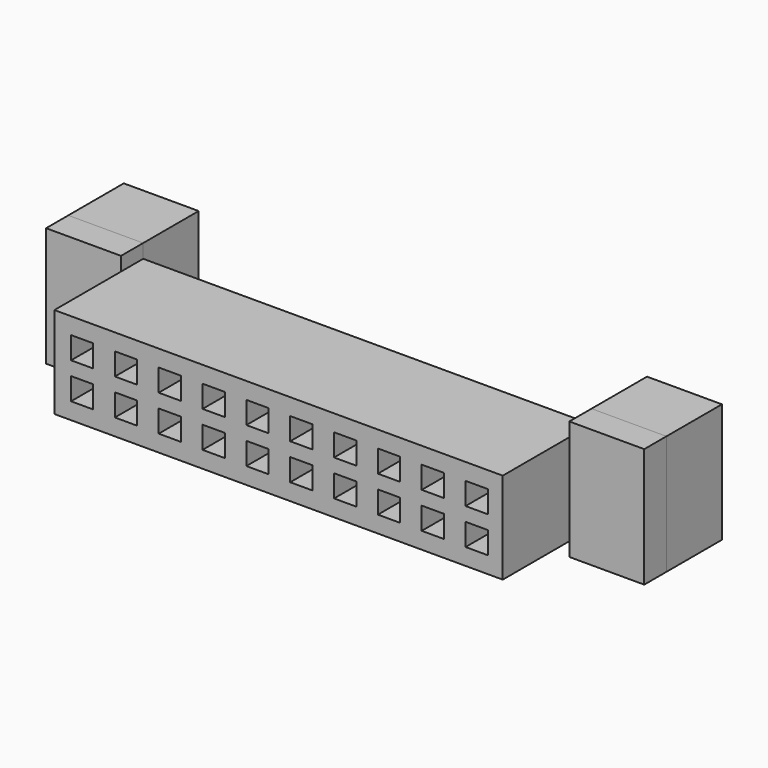
from build123d import *

# Parameters (mm, degrees)
F0_W      = 20.5232
F0_H      = 4.191
F0_W_2    = 1.016
F0_H_2    = 1.016
F1_DEPTH  = 5.08
F3_DEPTH  = 3.175
F3_FACE_W = 3.429
F3_FACE_H = 5.461
F4_DEPTH  = 1.27


with BuildPart() as f1:
    # F0 (on Front) → F1 (new body)
    with BuildSketch(Plane.XZ):
        with Locations((10.2616, 2.0955)):
            Rectangle(F0_W, F0_H)
        with Locations((1.27, 1.27)):
            Rectangle(F0_W_2, F0_H_2, mode=Mode.SUBTRACT)
        with Locations((3.2766, 1.27)):
            Rectangle(F0_W_2, F0_H_2, mode=Mode.SUBTRACT)
        with Locations((5.2832, 1.27)):
            Rectangle(F0_W_2, F0_H_2, mode=Mode.SUBTRACT)
        with Locations((7.2898, 1.27)):
            Rectangle(F0_W_2, F0_H_2, mode=Mode.SUBTRACT)
        with Locations((9.2964, 1.27)):
            Rectangle(F0_W_2, F0_H_2, mode=Mode.SUBTRACT)
        with Locations((11.303, 1.27)):
            Rectangle(F0_W_2, F0_H_2, mode=Mode.SUBTRACT)
        with Locations((13.3096, 1.27)):
            Rectangle(F0_W_2, F0_H_2, mode=Mode.SUBTRACT)
        with Locations((15.3162, 1.27)):
            Rectangle(F0_W_2, F0_H_2, mode=Mode.SUBTRACT)
        with Locations((17.3228, 1.27)):
            Rectangle(F0_W_2, F0_H_2, mode=Mode.SUBTRACT)
        with Locations((19.3294, 1.27)):
            Rectangle(F0_W_2, F0_H_2, mode=Mode.SUBTRACT)
        with Locations((1.27, 2.921)):
            Rectangle(F0_W_2, F0_H_2, mode=Mode.SUBTRACT)
        with Locations((3.2766, 2.921)):
            Rectangle(F0_W_2, F0_H_2, mode=Mode.SUBTRACT)
        with Locations((5.2832, 2.921)):
            Rectangle(F0_W_2, F0_H_2, mode=Mode.SUBTRACT)
        with Locations((7.2898, 2.921)):
            Rectangle(F0_W_2, F0_H_2, mode=Mode.SUBTRACT)
        with Locations((9.2964, 2.921)):
            Rectangle(F0_W_2, F0_H_2, mode=Mode.SUBTRACT)
        with Locations((11.303, 2.921)):
            Rectangle(F0_W_2, F0_H_2, mode=Mode.SUBTRACT)
        with Locations((13.3096, 2.921)):
            Rectangle(F0_W_2, F0_H_2, mode=Mode.SUBTRACT)
        with Locations((15.3162, 2.921)):
            Rectangle(F0_W_2, F0_H_2, mode=Mode.SUBTRACT)
        with Locations((17.3228, 2.921)):
            Rectangle(F0_W_2, F0_H_2, mode=Mode.SUBTRACT)
        with Locations((19.3294, 2.921)):
            Rectangle(F0_W_2, F0_H_2, mode=Mode.SUBTRACT)
    extrude(amount=F1_DEPTH)


with BuildPart() as f3:
    # F2 (on face) → F3 (new body)
    with BuildSketch(Plane(origin=(0, 0, 0), x_dir=(-1, 0, 0), z_dir=(0, 1, 0))):
        Polygon((-20.5232, 4.826), (-23.9522, 4.826), (-23.9522, -0.635), (-20.5232, -0.635), (-20.5232, 0), (-20.5232, 4.191), align=None)
        Polygon((0, 4.826), (0, 4.191), (0, 0), (0, -0.635), (3.429, -0.635), (3.429, 4.826), align=None)
    extrude(amount=F3_DEPTH)


with BuildPart() as f4:
    # F3_face (on face) → F4 (new body)
    with BuildSketch(Plane(origin=(22.2377, 0, 2.0955), x_dir=(-1, 0, 0), z_dir=(0, -1, 0))):
        Rectangle(F3_FACE_W, F3_FACE_H)
        with Locations((23.9522, 0)):
            Rectangle(F3_FACE_W, F3_FACE_H)
    extrude(amount=F4_DEPTH)


solid = Compound([f1.part, f3.part, f4.part])
